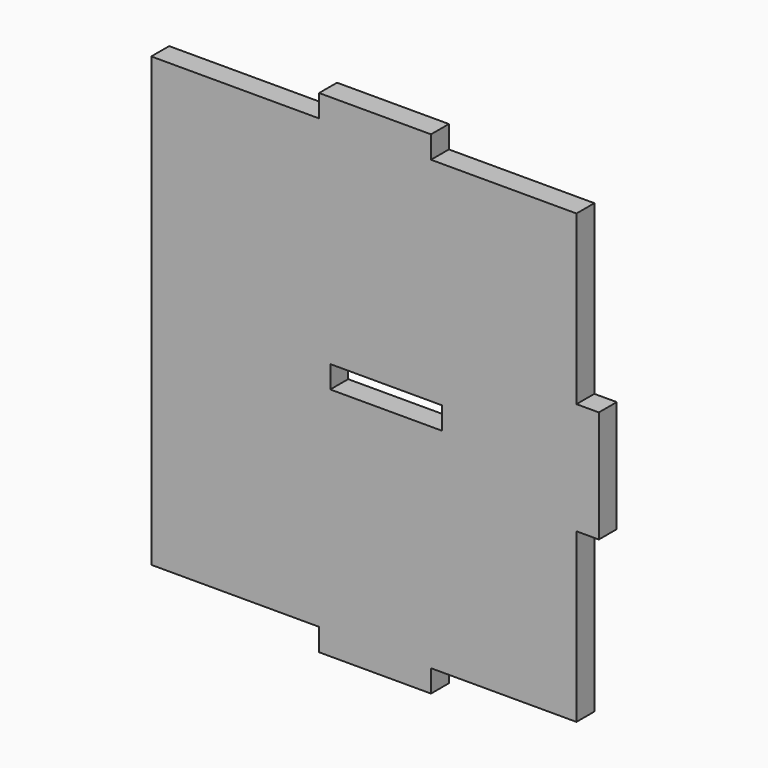
from build123d import *

# Parameters (mm, degrees)
F1_DEPTH = 5


with BuildPart() as f1:
    # F0 (on Front) → F1 (new body)
    with BuildSketch(Plane.XZ):
        Polygon((-35.98133, 64.900743), (-73.48133, 64.900743), (-73.48133, -35.099257), (-35.98133, -35.099257), (-35.98133, -40.099257), (-10.98133, -40.099257), (-10.98133, -35.099257), (21.51867, -35.099257), (21.51867, 2.400743), (26.51867, 2.400743), (26.51867, 14.900743), (26.51867, 27.400743), (21.51867, 27.400743), (21.51867, 64.900743), (-10.98133, 64.900743), (-10.98133, 69.900743), (-35.98133, 69.900743), align=None)
        Polygon((-8.48133, 17.400743), (-8.48133, 14.900743), (-8.48133, 12.400743), (-33.48133, 12.400743), (-33.48133, 17.400743), align=None, mode=Mode.SUBTRACT)
    extrude(amount=F1_DEPTH)


solid = f1.part
